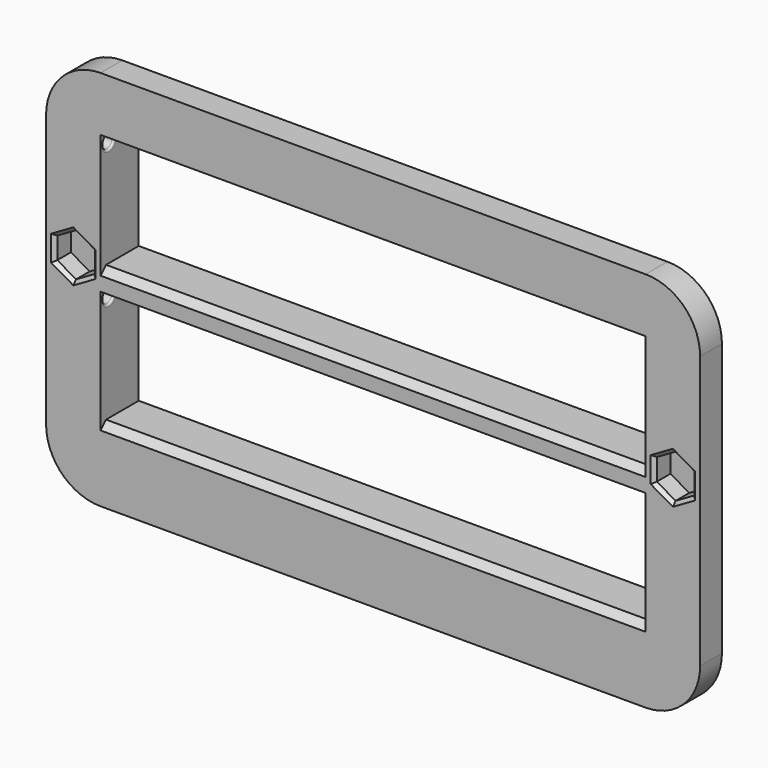
from build123d import *

# Parameters (mm, degrees)
PAD_DEPTH         = 4
PAD001_DEPTH      = 3
SKETCH002_W       = 80
SKETCH002_H       = 40
POCKET_DEPTH      = 3.001
POCKET_DEPTH_BACK = 4.001
PAD003_DEPTH      = 40
SKETCH005_R       = 1.75
POCKET001_DEPTH   = 40
POCKET002_DEPTH   = 3.001
SKETCH007_R       = 1.75
POCKET003_DEPTH   = 0.7
CHAMFER_SIZE      = 0.5
SKETCH009_R       = 1
POCKET004_DEPTH   = 42
FILLET001_R       = 0.3


with BuildPart() as part:
    # Sketch → Pad (new body)
    with BuildSketch(Plane.XZ):
        with BuildLine():
            Line((-48, 20), (-48, -20))
            ThreePointArc((-48, -20), (-45.656854, -25.656854), (-40, -28))
            Line((-40, -28), (40, -28))
            ThreePointArc((40, -28), (45.656854, -25.656854), (48, -20))
            Line((48, -20), (48, 20))
            ThreePointArc((48, 20), (45.656854, 25.656854), (40, 28))
            Line((40, 28), (-40, 28))
            ThreePointArc((-40, 28), (-45.656854, 25.656854), (-48, 20))
        make_face()
    extrude(amount=PAD_DEPTH)

    # Sketch001 → Pad001 (join)
    with BuildSketch(Plane.XZ):
        with BuildLine():
            Line((-42, 20), (-42, -20))
            ThreePointArc((-42, -20), (-41.414214, -21.414214), (-40, -22))
            Line((-40, -22), (40, -22))
            ThreePointArc((40, -22), (41.414214, -21.414214), (42, -20))
            Line((42, -20), (42, 20))
            ThreePointArc((42, 20), (41.414214, 21.414214), (40, 22))
            Line((40, 22), (-40, 22))
            ThreePointArc((-40, 22), (-41.414214, 21.414214), (-42, 20))
        make_face()
    extrude(amount=-PAD001_DEPTH)

    # Sketch002 → Pocket (cut, two sides)
    with BuildSketch(Plane.XZ) as pocket_sk:
        Rectangle(SKETCH002_W, SKETCH002_H)
    extrude(amount=-POCKET_DEPTH, mode=Mode.SUBTRACT)
    extrude(pocket_sk.sketch, amount=POCKET_DEPTH_BACK, mode=Mode.SUBTRACT)

    # Sketch004 → Pad003 (join, symmetric)
    with BuildSketch(Plane.YZ):
        with BuildLine():
            Line((-3, 2.8), (3, 2.8))
            Line((3, 2.8), (3, 0))
            Line((-1.598612, 0), (3, 0))
            ThreePointArc((-1.598612, 0), (-2.71323, 0.236961), (-3.737437, -0.262563))
            Line((-4, -0.262563), (-3.737437, -0.262563))
            Line((-4, 1.8), (-4, -0.262563))
            Line((-4, 1.8), (-3, 2.8))
        make_face()
        Polygon((-3, -17.2), (3, -17.2), (3, -20), (-4, -20), (-4, -18.2), align=None)
    extrude(amount=PAD003_DEPTH, both=True)

    # Sketch005 → Pocket001 (cut, symmetric)
    with BuildSketch(Plane.YZ):
        with Locations((-2.5, 18.5)):
            Circle(SKETCH005_R)
    extrude(amount=POCKET001_DEPTH, both=True, mode=Mode.SUBTRACT)

    # Sketch006 → Pocket002 (cut, through all)
    with BuildSketch(Plane(origin=(0, -1, 3), x_dir=(1, 0, 0), z_dir=(0, -1, 0))):
        Polygon((-44, -3.175426), (-41.25, -1.587713), (-41.25, 1.587713), (-44, 3.175426), (-46.75, 1.587713), (-46.75, -1.587713), align=None)
        Polygon((46.75, -1.587713), (46.75, 1.587713), (44, 3.175426), (41.25, 1.587713), (41.25, -1.587713), (44, -3.175426), align=None)
    extrude(amount=POCKET002_DEPTH, mode=Mode.SUBTRACT)

    # Sketch007 → Pocket003 (cut)
    with BuildSketch(Plane(origin=(0, 0, 3), x_dir=(1, 0, 0), z_dir=(0, -1, 0))):
        with Locations((-44, 0)):
            Circle(SKETCH007_R)
        with Locations((44, 0)):
            Circle(SKETCH007_R)
    extrude(amount=POCKET003_DEPTH, mode=Mode.SUBTRACT)

    # Chamfer
    chamfer_edges = [part.edges().sort_by_distance(p)[0] for p in [
        (-41.25, -4, 3),
        (-42.625, -4, 5.38157),
        (-45.375, -4, 5.38157),
        (-46.75, -4, 3),
        (-42.625, -4, 0.61843),
        (45.375, -4, 0.61843),
        (46.75, -4, 3),
        (45.375, -4, 5.38157),
        (42.625, -4, 5.38157),
        (41.25, -4, 3),
        (42.625, -4, 0.61843),
        (-45.375, -4, 0.61843),
    ]]
    chamfer(chamfer_edges, length=CHAMFER_SIZE)

    # Sketch009 → Pocket004 (cut, symmetric)
    with BuildSketch(Plane.YZ):
        with Locations((-2.5, 18.5)):
            Circle(SKETCH009_R)
        with Locations((-2.5, -1.5)):
            Circle(SKETCH009_R)
    extrude(amount=POCKET004_DEPTH, both=True, mode=Mode.SUBTRACT)

    # Fillet001
    fillet001_edges = [part.edges().sort_by_distance(p)[0] for p in [
        (-40, -3.5, 18.5),
        (-42, -3.5, 18.5),
        (-42, -3.5, -1.5),
        (-40, -3.5, -1.5),
        (42, -3.5, 18.5),
        (40, -3.5, 18.5),
        (42, -3.5, -1.5),
        (40, -3.5, -1.5),
    ]]
    fillet(fillet001_edges, radius=FILLET001_R)


solid = part.part
